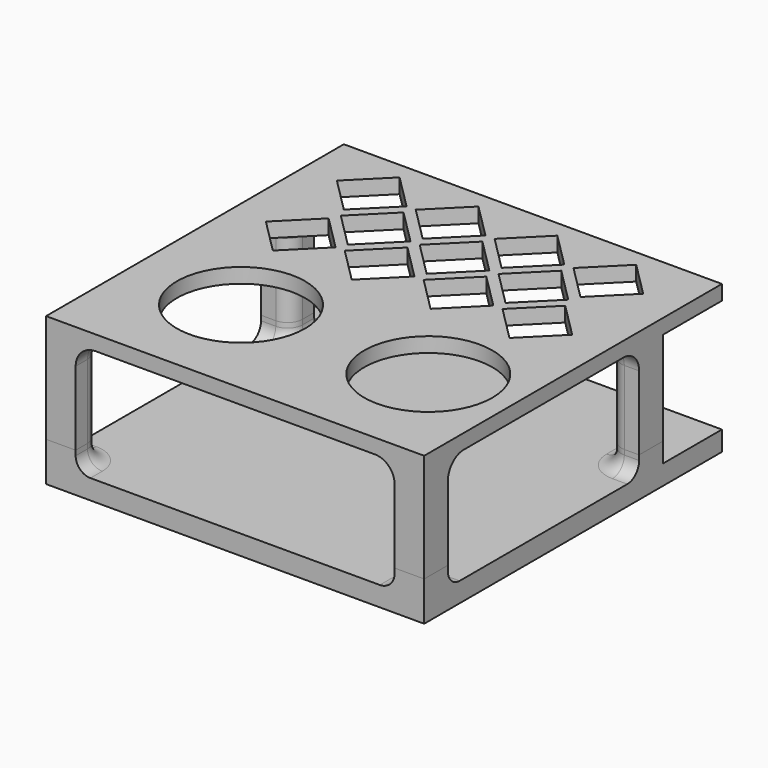
from build123d import *

# Parameters (mm, degrees)
CYLINDER011_R          = 2.95
CYLINDER011_DEPTH      = 2
CYLINDER004_R          = 1.5
CYLINDER004_DEPTH      = 22
CYLINDER007_R          = 1.35
CYLINDER007_DEPTH      = 22
CYLINDER010_R          = 2.8
CYLINDER010_DEPTH      = 2
CYLINDER006_R          = 1.35
CYLINDER006_DEPTH      = 22
CYLINDER009_R          = 2.8
CYLINDER009_DEPTH      = 2
CYLINDER008_R          = 2.8
CYLINDER008_DEPTH      = 2
CYLINDER005_R          = 1.35
CYLINDER005_DEPTH      = 22
BOX007_W               = 6
BOX007_H               = 6
BOX007_DEPTH           = 4
FILLET006_R            = 3
BOX004_W               = 6
BOX004_H               = 6
BOX004_DEPTH           = 4
FILLET007_R            = 3
BOX006_W               = 6
BOX006_H               = 6
BOX006_DEPTH           = 4
FILLET008_R            = 3
SKETCH004_W            = 76.7
SKETCH004_H            = 75.5
SKETCH004_R            = 1.75
EXTRUDE004_DEPTH       = 4
BOX005_W               = 6
BOX005_H               = 6
BOX005_DEPTH           = 4
FILLET005_R            = 3
FILLET009_R            = 3
BOX009_W               = 10
BOX009_H               = 10
BOX009_DEPTH           = 10
BOX009_PLACEMENT_ANGLE = 45
BOX010_W               = 10
BOX010_H               = 10
BOX010_DEPTH           = 10
BOX010_PLACEMENT_ANGLE = 45
BOX011_W               = 10
BOX011_H               = 10
BOX011_DEPTH           = 10
BOX011_PLACEMENT_ANGLE = 45
BOX012_W               = 10
BOX012_H               = 10
BOX012_DEPTH           = 10
BOX012_PLACEMENT_ANGLE = 45
BOX013_W               = 10
BOX013_H               = 10
BOX013_DEPTH           = 10
BOX013_PLACEMENT_ANGLE = 45
BOX014_W               = 10
BOX014_H               = 10
BOX014_DEPTH           = 10
BOX014_PLACEMENT_ANGLE = 45
BOX015_W               = 10
BOX015_H               = 10
BOX015_DEPTH           = 10
BOX015_PLACEMENT_ANGLE = 45
BOX016_W               = 10
BOX016_H               = 10
BOX016_DEPTH           = 10
BOX016_PLACEMENT_ANGLE = 45
BOX017_W               = 10
BOX017_H               = 10
BOX017_DEPTH           = 10
BOX017_PLACEMENT_ANGLE = 45
BOX018_W               = 10
BOX018_H               = 10
BOX018_DEPTH           = 10
BOX018_PLACEMENT_ANGLE = 45
BOX008_W               = 10
BOX008_H               = 10
BOX008_DEPTH           = 10
BOX008_PLACEMENT_ANGLE = 45
CYLINDER_R             = 1.35
CYLINDER_DEPTH         = 22
CYLINDER001_R          = 1.35
CYLINDER001_DEPTH      = 22
CYLINDER002_R          = 1.35
CYLINDER002_DEPTH      = 22
CYLINDER003_R          = 1.35
CYLINDER003_DEPTH      = 22
BOX003_W               = 6
BOX003_H               = 6
BOX003_DEPTH           = 19
FILLET_R               = 3
BOX002_W               = 6
BOX002_H               = 6
BOX002_DEPTH           = 19
FILLET001_R            = 3
BOX_W                  = 6
BOX_H                  = 6
BOX_DEPTH              = 19
FILLET002_R            = 3
BOX001_W               = 6
BOX001_H               = 6
BOX001_DEPTH           = 19
FILLET003_R            = 3
SKETCH_W               = 76.7
SKETCH_H               = 75.5
SKETCH_R               = 13
EXTRUDE_DEPTH          = 3
FILLET004_R            = 4


with BuildPart() as obj1:
    # Cylinder011 → Cylinder011 (new body)
    with BuildSketch(Plane(origin=(3.5, 57.5, -27), x_dir=(1, 0, 0), z_dir=(0, 0, 1))):
        Circle(CYLINDER011_R)
    extrude(amount=CYLINDER011_DEPTH)


with BuildPart() as screw_slip_through4:
    # Cylinder004 → Cylinder004 (new body)
    with BuildSketch(Plane(origin=(3.5, 57.5, -28), x_dir=(1, 0, 0), z_dir=(0, 0, 1))):
        Circle(CYLINDER004_R)
    extrude(amount=CYLINDER004_DEPTH)

    # Fusion005: union obj1
    add(obj1.part)


with BuildPart() as obj2:
    # Cylinder007 → Cylinder007 (new body)
    with BuildSketch(Plane(origin=(73.2, 57.5, -28), x_dir=(1, 0, 0), z_dir=(0, 0, 1))):
        Circle(CYLINDER007_R)
    extrude(amount=CYLINDER007_DEPTH)


with BuildPart() as screw_slip_through3:
    # Cylinder010 → Cylinder010 (new body)
    with BuildSketch(Plane(origin=(73.2, 57.5, -27), x_dir=(1, 0, 0), z_dir=(0, 0, 1))):
        Circle(CYLINDER010_R)
    extrude(amount=CYLINDER010_DEPTH)

    # Fusion004: union obj2
    add(obj2.part)


with BuildPart() as obj3:
    # Cylinder006 → Cylinder006 (new body)
    with BuildSketch(Plane(origin=(73.2, 3.7, -28), x_dir=(1, 0, 0), z_dir=(0, 0, 1))):
        Circle(CYLINDER006_R)
    extrude(amount=CYLINDER006_DEPTH)


with BuildPart() as screw_slip_through2:
    # Cylinder009 → Cylinder009 (new body)
    with BuildSketch(Plane(origin=(73.2, 3.7, -27), x_dir=(1, 0, 0), z_dir=(0, 0, 1))):
        Circle(CYLINDER009_R)
    extrude(amount=CYLINDER009_DEPTH)

    # Fusion003: union obj3
    add(obj3.part)


with BuildPart() as obj4:
    # Cylinder008 → Cylinder008 (new body)
    with BuildSketch(Plane(origin=(3.5, 3.7, -27), x_dir=(1, 0, 0), z_dir=(0, 0, 1))):
        Circle(CYLINDER008_R)
    extrude(amount=CYLINDER008_DEPTH)


with BuildPart() as screw_slip_through1:
    # Cylinder005 → Cylinder005 (new body)
    with BuildSketch(Plane(origin=(3.5, 3.7, -28), x_dir=(1, 0, 0), z_dir=(0, 0, 1))):
        Circle(CYLINDER005_R)
    extrude(amount=CYLINDER005_DEPTH)

    # Fusion002: union obj4
    add(obj4.part)


with BuildPart() as roundedpost006:
    # Box007 → Box007 (new body)
    with BuildSketch(Plane(origin=(0, 54.5, -23), x_dir=(1, 0, 0), z_dir=(0, 0, 1))):
        with Locations((3, 3)):
            Rectangle(BOX007_W, BOX007_H)
    extrude(amount=BOX007_DEPTH)

    # Fillet006
    fillet006_edges = [roundedpost006.edges().sort_by_distance(p)[0] for p in [
        (6, 54.5, -21),
    ]]
    fillet(fillet006_edges, radius=FILLET006_R)


with BuildPart() as roundedpost007:
    # Box004 → Box004 (new body)
    with BuildSketch(Plane(origin=(70.7, 54.5, -23), x_dir=(1, 0, 0), z_dir=(0, 0, 1))):
        with Locations((3, 3)):
            Rectangle(BOX004_W, BOX004_H)
    extrude(amount=BOX004_DEPTH)

    # Fillet007
    fillet007_edges = [roundedpost007.edges().sort_by_distance(p)[0] for p in [
        (70.7, 54.5, -21),
    ]]
    fillet(fillet007_edges, radius=FILLET007_R)


with BuildPart() as roundedpost008:
    # Box006 → Box006 (new body)
    with BuildSketch(Plane(origin=(70.7, 0, -23), x_dir=(1, 0, 0), z_dir=(0, 0, 1))):
        with Locations((3, 3)):
            Rectangle(BOX006_W, BOX006_H)
    extrude(amount=BOX006_DEPTH)

    # Fillet008
    fillet008_edges = [roundedpost008.edges().sort_by_distance(p)[0] for p in [
        (70.7, 6, -21),
    ]]
    fillet(fillet008_edges, radius=FILLET008_R)


with BuildPart() as bottom_plate:
    # Sketch004 → Extrude004 (new body)
    with BuildSketch(Plane.XY):
        with Locations((38.35, 37.75)):
            Rectangle(SKETCH004_W, SKETCH004_H)
        with Locations((3.5, 3.7)):
            Circle(SKETCH004_R, mode=Mode.SUBTRACT)
        with Locations((73.2, 3.7)):
            Circle(SKETCH004_R, mode=Mode.SUBTRACT)
        with Locations((3.5, 57.5)):
            Circle(SKETCH004_R, mode=Mode.SUBTRACT)
        with Locations((73.2, 57.5)):
            Circle(SKETCH004_R, mode=Mode.SUBTRACT)
    extrude(amount=EXTRUDE004_DEPTH)


with BuildPart() as bottom_plate_1:
    # Extrude004 placement: moved
    add(bottom_plate.part.moved(Location((0, 0, -27))))


with BuildPart() as bottom_plate_complete:
    # Box005 → Box005 (new body)
    with BuildSketch(Plane.XY.offset(-23)):
        with Locations((3, 3)):
            Rectangle(BOX005_W, BOX005_H)
    extrude(amount=BOX005_DEPTH)

    # Fillet005
    fillet005_edges = [bottom_plate_complete.edges().sort_by_distance(p)[0] for p in [
        (6, 6, -21),
    ]]
    fillet(fillet005_edges, radius=FILLET005_R)

    # Fusion001: union roundedpost006, roundedpost007, roundedpost008, bottom-plate
    add(roundedpost006.part)
    add(roundedpost007.part)
    add(roundedpost008.part)
    add(bottom_plate_1.part)

    # Fillet009
    fillet009_edges = [bottom_plate_complete.edges().sort_by_distance(p)[0] for p in [
        (6, 1.5, -23),
        (5.12132, 5.12132, -23),
        (1.5, 6, -23),
        (1.5, 54.5, -23),
        (5.12132, 55.37868, -23),
        (6, 59, -23),
        (70.7, 59, -23),
        (71.57868, 55.37868, -23),
        (75.2, 54.5, -23),
        (75.2, 6, -23),
        (71.57868, 5.12132, -23),
        (70.7, 1.5, -23),
    ]]
    fillet(fillet009_edges, radius=FILLET009_R)

    # Cut004: cut screw-slip-through1
    add(screw_slip_through1.part, mode=Mode.SUBTRACT)

    # Cut005: cut screw-slip-through2
    add(screw_slip_through2.part, mode=Mode.SUBTRACT)

    # Cut006: cut screw-slip-through3
    add(screw_slip_through3.part, mode=Mode.SUBTRACT)

    # Cut007: cut screw-slip-through4
    add(screw_slip_through4.part, mode=Mode.SUBTRACT)


with BuildPart() as cube001:
    # Box009 → Box009 (new body)
    with BuildSketch(Plane.XY):
        with Locations((5, 5)):
            Rectangle(BOX009_W, BOX009_H)
    extrude(amount=BOX009_DEPTH)


with BuildPart() as cube001_1:
    # Box009 placement: moved
    add(cube001.part.moved(Location((30, 40, 0))).rotate(Axis((30, 40, 0), (0, 0, 1)), BOX009_PLACEMENT_ANGLE))


with BuildPart() as cube002:
    # Box010 → Box010 (new body)
    with BuildSketch(Plane.XY):
        with Locations((5, 5)):
            Rectangle(BOX010_W, BOX010_H)
    extrude(amount=BOX010_DEPTH)


with BuildPart() as cube002_1:
    # Box010 placement: moved
    add(cube002.part.moved(Location((62, 40, 0))).rotate(Axis((62, 40, 0), (0, 0, 1)), BOX010_PLACEMENT_ANGLE))


with BuildPart() as cube003:
    # Box011 → Box011 (new body)
    with BuildSketch(Plane.XY):
        with Locations((5, 5)):
            Rectangle(BOX011_W, BOX011_H)
    extrude(amount=BOX011_DEPTH)


with BuildPart() as cube003_1:
    # Box011 placement: moved
    add(cube003.part.moved(Location((46, 40, 0))).rotate(Axis((46, 40, 0), (0, 0, 1)), BOX011_PLACEMENT_ANGLE))


with BuildPart() as cube004:
    # Box012 → Box012 (new body)
    with BuildSketch(Plane.XY):
        with Locations((5, 5)):
            Rectangle(BOX012_W, BOX012_H)
    extrude(amount=BOX012_DEPTH)


with BuildPart() as cube004_1:
    # Box012 placement: moved
    add(cube004.part.moved(Location((22, 49, 0))).rotate(Axis((22, 49, 0), (0, 0, 1)), BOX012_PLACEMENT_ANGLE))


with BuildPart() as cube005:
    # Box013 → Box013 (new body)
    with BuildSketch(Plane.XY):
        with Locations((5, 5)):
            Rectangle(BOX013_W, BOX013_H)
    extrude(amount=BOX013_DEPTH)


with BuildPart() as cube005_1:
    # Box013 placement: moved
    add(cube005.part.moved(Location((38, 49, 0))).rotate(Axis((38, 49, 0), (0, 0, 1)), BOX013_PLACEMENT_ANGLE))


with BuildPart() as cube006:
    # Box014 → Box014 (new body)
    with BuildSketch(Plane.XY):
        with Locations((5, 5)):
            Rectangle(BOX014_W, BOX014_H)
    extrude(amount=BOX014_DEPTH)


with BuildPart() as cube006_1:
    # Box014 placement: moved
    add(cube006.part.moved(Location((54, 49, 0))).rotate(Axis((54, 49, 0), (0, 0, 1)), BOX014_PLACEMENT_ANGLE))


with BuildPart() as cube007:
    # Box015 → Box015 (new body)
    with BuildSketch(Plane.XY):
        with Locations((5, 5)):
            Rectangle(BOX015_W, BOX015_H)
    extrude(amount=BOX015_DEPTH)


with BuildPart() as cube007_1:
    # Box015 placement: moved
    add(cube007.part.moved(Location((14, 58, 0))).rotate(Axis((14, 58, 0), (0, 0, 1)), BOX015_PLACEMENT_ANGLE))


with BuildPart() as cube008:
    # Box016 → Box016 (new body)
    with BuildSketch(Plane.XY):
        with Locations((5, 5)):
            Rectangle(BOX016_W, BOX016_H)
    extrude(amount=BOX016_DEPTH)


with BuildPart() as cube008_1:
    # Box016 placement: moved
    add(cube008.part.moved(Location((30, 58, 0))).rotate(Axis((30, 58, 0), (0, 0, 1)), BOX016_PLACEMENT_ANGLE))


with BuildPart() as cube009:
    # Box017 → Box017 (new body)
    with BuildSketch(Plane.XY):
        with Locations((5, 5)):
            Rectangle(BOX017_W, BOX017_H)
    extrude(amount=BOX017_DEPTH)


with BuildPart() as cube009_1:
    # Box017 placement: moved
    add(cube009.part.moved(Location((62, 58, 0))).rotate(Axis((62, 58, 0), (0, 0, 1)), BOX017_PLACEMENT_ANGLE))


with BuildPart() as cube010:
    # Box018 → Box018 (new body)
    with BuildSketch(Plane.XY):
        with Locations((5, 5)):
            Rectangle(BOX018_W, BOX018_H)
    extrude(amount=BOX018_DEPTH)


with BuildPart() as cube010_1:
    # Box018 placement: moved
    add(cube010.part.moved(Location((46, 58, 0))).rotate(Axis((46, 58, 0), (0, 0, 1)), BOX018_PLACEMENT_ANGLE))


with BuildPart() as decorator_cutout:
    # Box008 → Box008 (new body)
    with BuildSketch(Plane.XY):
        with Locations((5, 5)):
            Rectangle(BOX008_W, BOX008_H)
    extrude(amount=BOX008_DEPTH)


with BuildPart() as decorator_cutout_1:
    # Box008 placement: moved
    add(decorator_cutout.part.moved(Location((14, 40, 0))).rotate(Axis((14, 40, 0), (0, 0, 1)), BOX008_PLACEMENT_ANGLE))

    # Fusion006: union Cube001, Cube002, Cube003, Cube004, Cube005, Cube006, Cube007, Cube008, Cube009, Cube010
    add(cube001_1.part)
    add(cube002_1.part)
    add(cube003_1.part)
    add(cube004_1.part)
    add(cube005_1.part)
    add(cube006_1.part)
    add(cube007_1.part)
    add(cube008_1.part)
    add(cube009_1.part)
    add(cube010_1.part)


with BuildPart() as threaded_cutout:
    # Cylinder → Cylinder (new body)
    with BuildSketch(Plane(origin=(3.5, 3.7, -27), x_dir=(1, 0, 0), z_dir=(0, 0, 1))):
        Circle(CYLINDER_R)
    extrude(amount=CYLINDER_DEPTH)


with BuildPart() as threaded_cutout001:
    # Cylinder001 → Cylinder001 (new body)
    with BuildSketch(Plane(origin=(73.2, 3.7, -27), x_dir=(1, 0, 0), z_dir=(0, 0, 1))):
        Circle(CYLINDER001_R)
    extrude(amount=CYLINDER001_DEPTH)


with BuildPart() as threaded_cutout002:
    # Cylinder002 → Cylinder002 (new body)
    with BuildSketch(Plane(origin=(73.2, 57.5, -27), x_dir=(1, 0, 0), z_dir=(0, 0, 1))):
        Circle(CYLINDER002_R)
    extrude(amount=CYLINDER002_DEPTH)


with BuildPart() as threaded_cutout003:
    # Cylinder003 → Cylinder003 (new body)
    with BuildSketch(Plane(origin=(3.5, 57.5, -27), x_dir=(1, 0, 0), z_dir=(0, 0, 1))):
        Circle(CYLINDER003_R)
    extrude(amount=CYLINDER003_DEPTH)


with BuildPart() as roundedpost1:
    # Box003 → Box003 (new body)
    with BuildSketch(Plane(origin=(0, 54.5, -19), x_dir=(1, 0, 0), z_dir=(0, 0, 1))):
        with Locations((3, 3)):
            Rectangle(BOX003_W, BOX003_H)
    extrude(amount=BOX003_DEPTH)

    # Fillet
    fillet_edges = [roundedpost1.edges().sort_by_distance(p)[0] for p in [
        (6, 54.5, -9.5),
    ]]
    fillet(fillet_edges, radius=FILLET_R)


with BuildPart() as roundedpost2:
    # Box002 → Box002 (new body)
    with BuildSketch(Plane(origin=(70.7, 54.5, -19), x_dir=(1, 0, 0), z_dir=(0, 0, 1))):
        with Locations((3, 3)):
            Rectangle(BOX002_W, BOX002_H)
    extrude(amount=BOX002_DEPTH)

    # Fillet001
    fillet001_edges = [roundedpost2.edges().sort_by_distance(p)[0] for p in [
        (70.7, 54.5, -9.5),
    ]]
    fillet(fillet001_edges, radius=FILLET001_R)


with BuildPart() as roundedpost3:
    # Box → Box (new body)
    with BuildSketch(Plane.XY.offset(-19)):
        with Locations((3, 3)):
            Rectangle(BOX_W, BOX_H)
    extrude(amount=BOX_DEPTH)

    # Fillet002
    fillet002_edges = [roundedpost3.edges().sort_by_distance(p)[0] for p in [
        (6, 6, -9.5),
    ]]
    fillet(fillet002_edges, radius=FILLET002_R)


with BuildPart() as roundedpost4:
    # Box001 → Box001 (new body)
    with BuildSketch(Plane(origin=(70.7, 0, -19), x_dir=(1, 0, 0), z_dir=(0, 0, 1))):
        with Locations((3, 3)):
            Rectangle(BOX001_W, BOX001_H)
    extrude(amount=BOX001_DEPTH)

    # Fillet003
    fillet003_edges = [roundedpost4.edges().sort_by_distance(p)[0] for p in [
        (70.7, 6, -9.5),
    ]]
    fillet(fillet003_edges, radius=FILLET003_R)


with BuildPart() as top_plate_complete_decorated:
    # Sketch → Extrude (new body)
    with BuildSketch(Plane.XY):
        with Locations((38.35, 37.75)):
            Rectangle(SKETCH_W, SKETCH_H)
        with Locations((59.7, 22.3)):
            Circle(SKETCH_R, mode=Mode.SUBTRACT)
        with Locations((21.7, 22.3)):
            Circle(SKETCH_R, mode=Mode.SUBTRACT)
    extrude(amount=EXTRUDE_DEPTH)

    # Fusion: union roundedpost1, roundedpost2, roundedpost3, roundedpost4
    add(roundedpost1.part)
    add(roundedpost2.part)
    add(roundedpost3.part)
    add(roundedpost4.part)

    # Fillet004
    fillet004_edges = [top_plate_complete_decorated.edges().sort_by_distance(p)[0] for p in [
        (6, 1.5, 0),
        (5.12132, 5.12132, 0),
        (1.5, 6, 0),
        (1.5, 54.5, 0),
        (5.12132, 55.37868, 0),
        (6, 59, 0),
        (70.7, 59, 0),
        (71.57868, 55.37868, 0),
        (75.2, 54.5, 0),
        (75.2, 6, 0),
        (71.57868, 5.12132, 0),
        (70.7, 1.5, 0),
    ]]
    fillet(fillet004_edges, radius=FILLET004_R)

    # Cut: cut threaded-cutout003
    add(threaded_cutout003.part, mode=Mode.SUBTRACT)

    # Cut001: cut threaded-cutout002
    add(threaded_cutout002.part, mode=Mode.SUBTRACT)

    # Cut002: cut threaded-cutout001
    add(threaded_cutout001.part, mode=Mode.SUBTRACT)

    # Cut003: cut threaded-cutout
    add(threaded_cutout.part, mode=Mode.SUBTRACT)

    # Cut008: cut decorator-cutout
    add(decorator_cutout_1.part, mode=Mode.SUBTRACT)


solid = Compound([bottom_plate_complete.part, top_plate_complete_decorated.part])
